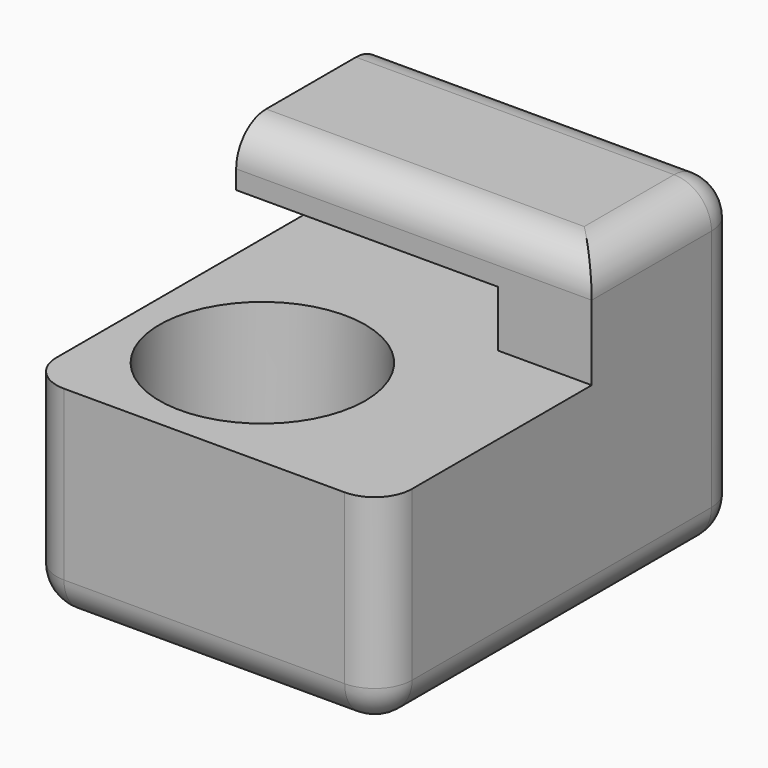
from build123d import *

# Parameters (mm, degrees)
CYLINDER_R     = 5.5
CYLINDER_DEPTH = 10
BOX001_W       = 5
BOX001_H       = 10
BOX001_DEPTH   = 3
BOX002_W       = 19
BOX002_H       = 10
BOX002_DEPTH   = 3
BOX_W          = 19
BOX_H          = 24
BOX_DEPTH      = 11
FILLET_R       = 2


with BuildPart() as magnet_hole:
    # Cylinder → Cylinder (new body)
    with BuildSketch(Plane(origin=(7, 7, 1), x_dir=(1, 0, 0), z_dir=(0, 0, 1))):
        Circle(CYLINDER_R)
    extrude(amount=CYLINDER_DEPTH)


with BuildPart() as cube001:
    # Box001 → Box001 (new body)
    with BuildSketch(Plane(origin=(14, 14, 11), x_dir=(1, 0, 0), z_dir=(0, 0, 1))):
        with Locations((2.5, 5)):
            Rectangle(BOX001_W, BOX001_H)
    extrude(amount=BOX001_DEPTH)


with BuildPart() as cube002:
    # Box002 → Box002 (new body)
    with BuildSketch(Plane(origin=(0, 14, 14), x_dir=(1, 0, 0), z_dir=(0, 0, 1))):
        with Locations((9.5, 5)):
            Rectangle(BOX002_W, BOX002_H)
    extrude(amount=BOX002_DEPTH)


with BuildPart() as fillet_body:
    # Box → Box (new body)
    with BuildSketch(Plane.XY):
        with Locations((9.5, 12)):
            Rectangle(BOX_W, BOX_H)
    extrude(amount=BOX_DEPTH)

    # Fusion: union Cube001, Cube002
    add(cube001.part)
    add(cube002.part)

    # Cut: cut Magnet Hole
    add(magnet_hole.part, mode=Mode.SUBTRACT)

    # Fillet
    fillet_edges = [fillet_body.edges().sort_by_distance(p)[0] for p in [
        (0, 0, 5.5),
        (0, 24, 5.5),
        (0, 12, 0),
        (9.5, 0, 0),
        (19, 0, 5.5),
        (9.5, 24, 0),
        (19, 24, 5.5),
        (19, 12, 0),
        (19, 24, 12.5),
        (9.5, 14, 17),
        (19, 24, 15.5),
        (9.5, 24, 17),
        (19, 19, 17),
    ]]
    fillet(fillet_edges, radius=FILLET_R)


solid = fillet_body.part
